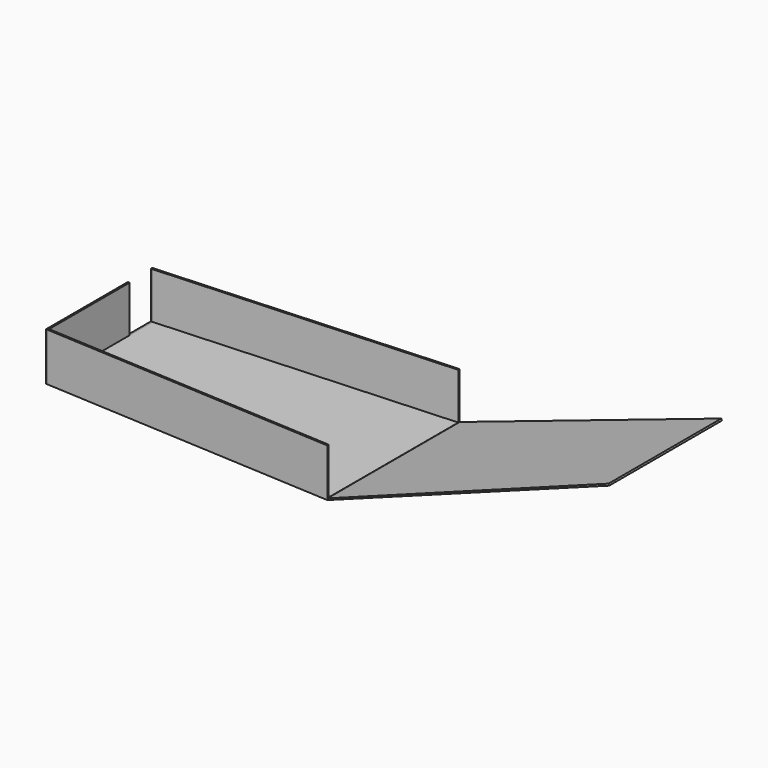
from build123d import *

# Parameters (mm, degrees)
F2_DEPTH = 86
F3_DEPTH = 121
F4_DEPTH = 50
F5_DEPTH = 1.8
F6_W     = 30
F6_H     = 48.2
F7_DEPTH = 25


with BuildPart() as f2:
    # F1 (on Front) → F2 (new body, symmetric)
    with BuildSketch(Plane.XZ):
        Polygon((0, 1.58114), (0, 0), (282.84278, 99.99981), (282.237692, 101.695059), align=None)
    extrude(amount=F2_DEPTH, both=True)

    # F0 (on Top) → F3 (cut)
    with BuildSketch(Plane.XY):
        Polygon((300, -72.5), (0, -86), (300, -86), align=None)
        Polygon((300, 86), (0, 86), (300, 72.5), align=None)
    extrude(amount=F3_DEPTH, mode=Mode.SUBTRACT)

    # F0 (on Top) → F4 (join)
    with BuildSketch(Plane.XY):
        Polygon((-306, 67.2), (-306, 0), (-306, -67.2), (-304.202771, -67.299846), (-304.202771, 67.299846), align=None)
        Polygon((0, -84.2), (-304.202771, -67.299846), (-304.202771, -69.099846), (0, -86), align=None)
        Polygon((-304.202771, 69.099846), (-304.202771, 67.299846), (0, 84.2), (0, 86), align=None)
        Polygon((-304.202771, -67.299846), (-306, -67.2), (-306, -69), (-304.202771, -69.099846), align=None)
        Polygon((-306, 69), (-306, 67.2), (-304.202771, 67.299846), (-304.202771, 69.099846), align=None)
    extrude(amount=F4_DEPTH)

    # F6 (on face) → F7 (cut)
    with BuildSketch(Plane.YZ.offset(-304.202771)):
        with Locations((52.299846, 25.9)):
            Rectangle(F6_W, F6_H)
    extrude(amount=-F7_DEPTH, mode=Mode.SUBTRACT)


with BuildPart() as f5:
    # F0 (on Top) → F5 (new body)
    with BuildSketch(Plane.XY):
        Polygon((-304.202771, 67.299846), (-304.202771, -67.299846), (0, -84.2), (0, 84.2), align=None)
    extrude(amount=F5_DEPTH)


solid = Compound([f2.part, f5.part])
